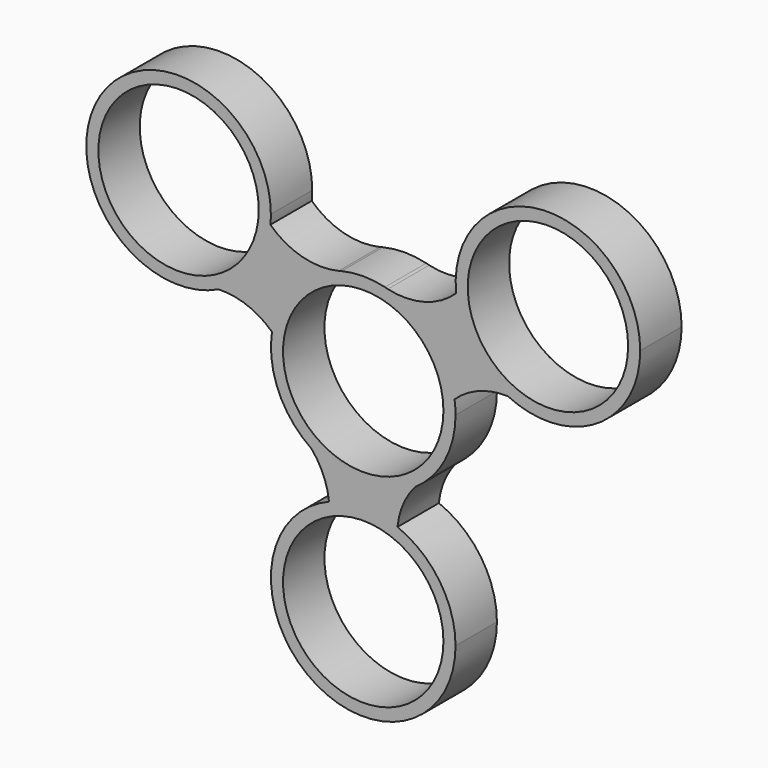
from build123d import *

# Parameters (mm, degrees)
F0_R     = 11.0236
F1_DEPTH = 7.112


with BuildPart() as f1:
    # F0 (on Front) → F1 (new body)
    with BuildSketch(Plane.XZ):
        with BuildLine():
            ThreePointArc((7.13088, -10.493719), (11.212475, -5.937001), (12.6873, 0))
            ThreePointArc((12.6873, 0), (12.65251, 0.938916), (12.548332, 1.872682))
            ThreePointArc((12.548332, 1.872682), (9.498547, 8.411016), (3.377281, 12.229536))
            ThreePointArc((3.377281, 12.229536), (3.174885, 12.279667), (2.973555, 12.333919))
            ThreePointArc((2.973555, 12.333919), (0, 12.6873), (-2.973555, 12.333919))
            ThreePointArc((-2.973555, 12.333919), (-3.174885, 12.279667), (-3.377281, 12.229536))
            ThreePointArc((-3.377281, 12.229536), (-9.498547, 8.411016), (-12.548332, 1.872682))
            ThreePointArc((-12.548332, 1.872682), (-11.621094, -5.090949), (-7.13088, -10.493719))
            ThreePointArc((-7.13088, -10.493719), (0, -12.6873), (7.13088, -10.493719))
        make_face()
        Circle(F0_R, mode=Mode.SUBTRACT)
        with BuildLine():
            ThreePointArc((3.377281, 12.229536), (9.498547, 8.411016), (12.548332, 1.872682))
            ThreePointArc((12.548332, 1.872682), (15.937797, 3.981202), (19.876588, 4.629474))
            ThreePointArc((19.876588, 4.629474), (15.001469, 8.770375), (12.766163, 14.763476))
            ThreePointArc((12.766163, 14.763476), (8.392669, 12.307319), (3.377281, 12.229536))
        make_face()
        with BuildLine():
            ThreePointArc((4.70572, -16.13225), (5.484703, -13.126492), (7.13088, -10.493719))
            ThreePointArc((7.13088, -10.493719), (0, -12.6873), (-7.13088, -10.493719))
            ThreePointArc((-7.13088, -10.493719), (-5.484703, -13.126492), (-4.70572, -16.13225))
            ThreePointArc((-4.70572, -16.13225), (0, -15.2273), (4.70572, -16.13225))
        make_face()
        with BuildLine():
            ThreePointArc((2.973555, 12.333919), (3.174885, 12.279667), (3.377281, 12.229536))
            ThreePointArc((3.377281, 12.229536), (3.175847, 12.283386), (2.973555, 12.333919))
        make_face()
        with BuildLine():
            ThreePointArc((12.766163, 14.763476), (15.001469, 8.770375), (19.876588, 4.629474))
            ThreePointArc((19.876588, 4.629474), (32.134578, 5.313108), (38.0746, 16.057493))
            ThreePointArc((38.0746, 16.057493), (24.739446, 28.728242), (12.766163, 14.763476))
        make_face()
        with Locations((25.3873, 16.057493)):
            Circle(F0_R, mode=Mode.SUBTRACT)
        with BuildLine():
            ThreePointArc((12.6873, -27.9146), (10.504058, -20.798959), (4.70572, -16.13225))
            ThreePointArc((4.70572, -16.13225), (0, -15.2273), (-4.70572, -16.13225))
            ThreePointArc((-4.70572, -16.13225), (-7.115641, -38.418658), (12.6873, -27.9146))
        make_face()
        with Locations((0, -27.9146)):
            Circle(F0_R, mode=Mode.SUBTRACT)
        with BuildLine():
            ThreePointArc((-19.876588, 4.629474), (-15.937797, 3.981202), (-12.548332, 1.872682))
            ThreePointArc((-12.548332, 1.872682), (-9.498547, 8.411016), (-3.377281, 12.229536))
            ThreePointArc((-3.377281, 12.229536), (-8.392669, 12.307319), (-12.766163, 14.763476))
            ThreePointArc((-12.766163, 14.763476), (-15.001469, 8.770375), (-19.876588, 4.629474))
        make_face()
        with BuildLine():
            ThreePointArc((-3.377281, 12.229536), (-3.174885, 12.279667), (-2.973555, 12.333919))
            ThreePointArc((-2.973555, 12.333919), (-3.175847, 12.283386), (-3.377281, 12.229536))
        make_face()
        with BuildLine():
            ThreePointArc((-12.7, 16.057493), (-36.131685, 22.804772), (-19.876588, 4.629474))
            ThreePointArc((-19.876588, 4.629474), (-15.001469, 8.770375), (-12.766163, 14.763476))
            ThreePointArc((-12.766163, 14.763476), (-12.716552, 15.40964), (-12.7, 16.057493))
        make_face()
        with Locations((-25.3873, 16.057493)):
            Circle(F0_R, mode=Mode.SUBTRACT)
    extrude(amount=F1_DEPTH)


solid = f1.part
